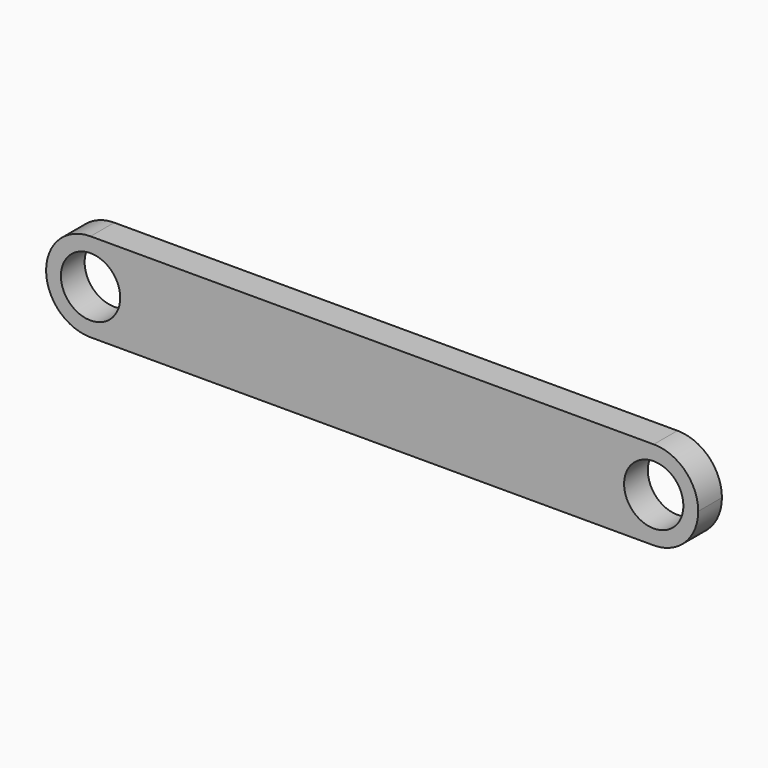
from build123d import *

# Parameters (mm, degrees)
F0_R     = 25.4
F1_DEPTH = 25.4


with BuildPart() as f1:
    # F0 (on Front) → F1 (new body)
    with BuildSketch(Plane.XZ):
        with BuildLine():
            ThreePointArc((-241.3, -38.1), (-214.359232, -26.940768), (-203.2, 0))
            ThreePointArc((-203.2, 0), (-214.359232, 26.940768), (-241.3, 38.1))
            ThreePointArc((-241.3, 38.1), (-279.4, 0), (-241.3, -38.1))
        make_face()
        with Locations((-241.3, 0)):
            Circle(F0_R, mode=Mode.SUBTRACT)
        with BuildLine():
            ThreePointArc((-241.3, 38.1), (-214.359232, 26.940768), (-203.2, 0))
            ThreePointArc((-203.2, 0), (-214.359232, -26.940768), (-241.3, -38.1))
            Line((-241.3, -38.1), (241.3, -38.1))
            ThreePointArc((241.3, -38.1), (203.2, 0), (241.3, 38.1))
            Line((241.3, 38.1), (-241.3, 38.1))
        make_face()
        with BuildLine():
            ThreePointArc((279.4, 0), (268.240768, 26.940768), (241.3, 38.1))
            ThreePointArc((241.3, 38.1), (203.2, 0), (241.3, -38.1))
            ThreePointArc((241.3, -38.1), (268.240768, -26.940768), (279.4, 0))
        make_face()
        with Locations((241.3, 0)):
            Circle(F0_R, mode=Mode.SUBTRACT)
    extrude(amount=-F1_DEPTH)


solid = f1.part
